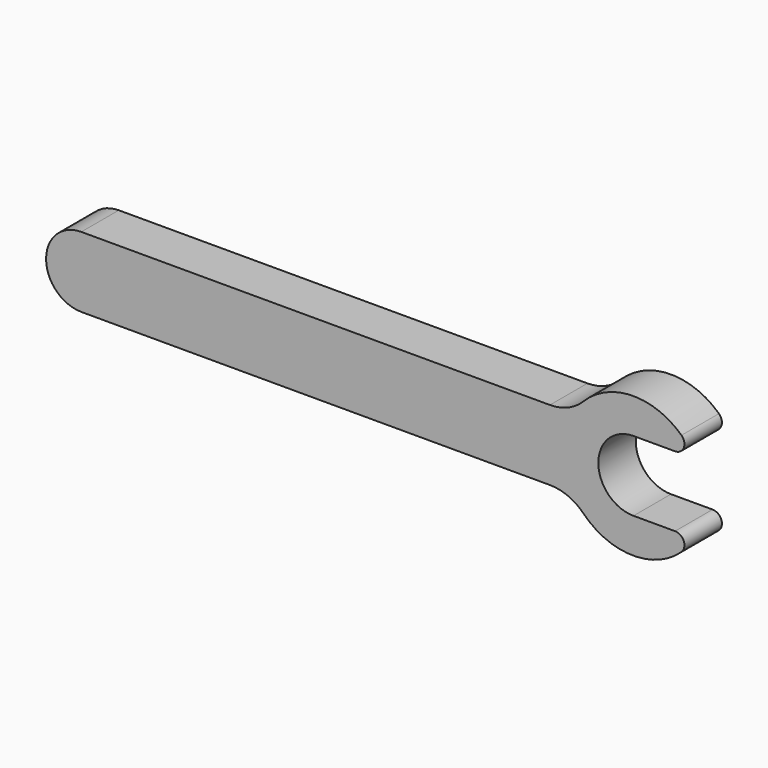
from build123d import *

# Parameters (mm, degrees)
F1_DEPTH = 6.35


with BuildPart() as f1:
    # F0 (on Front) → F1 (new body)
    with BuildSketch(Plane.XZ):
        with BuildLine():
            Line((63.5, 4.7752), (0, 4.7752))
            ThreePointArc((0, 4.7752), (-4.7752, 0), (0, -4.7752))
            Line((0, -4.7752), (63.5, -4.7752))
            ThreePointArc((63.5, -4.7752), (65.956063, -5.269412), (68.029822, -6.67512))
            ThreePointArc((68.029822, -6.67512), (74.620118, -9.522806), (81.326554, -6.960577))
            ThreePointArc((81.326554, -6.960577), (81.641052, -5.566537), (80.459621, -4.7625))
            Line((80.459621, -4.7625), (74.824555, -4.7625))
            ThreePointArc((74.824555, -4.7625), (70.062055, 0), (74.824555, 4.7625))
            Line((74.824555, 4.7625), (80.459621, 4.7625))
            ThreePointArc((80.459621, 4.7625), (81.641052, 5.566537), (81.326554, 6.960577))
            ThreePointArc((81.326554, 6.960577), (74.620118, 9.522806), (68.029822, 6.67512))
            ThreePointArc((68.029822, 6.67512), (65.956063, 5.269412), (63.5, 4.7752))
        make_face()
    extrude(amount=F1_DEPTH)


solid = f1.part
